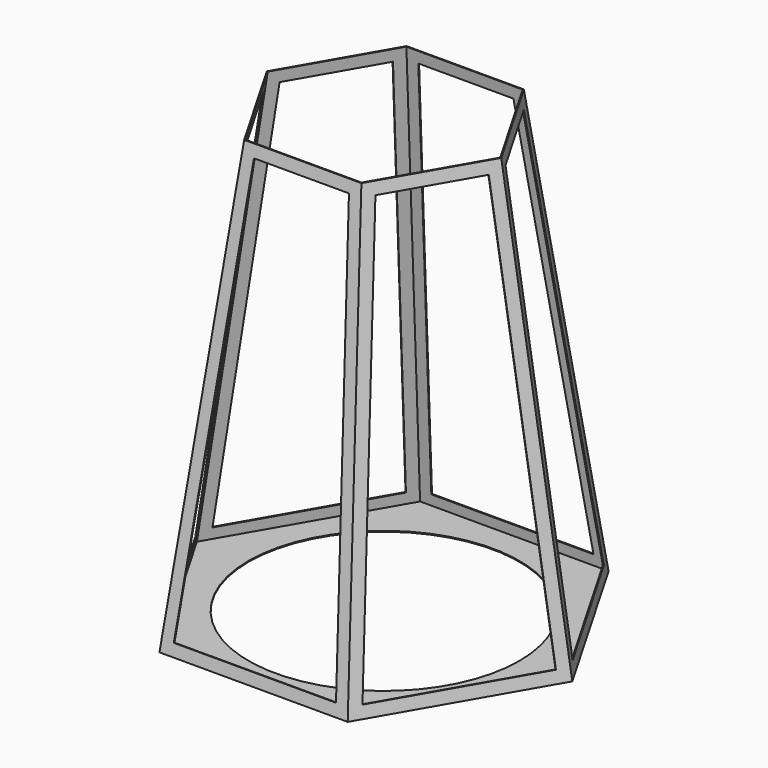
from build123d import *

# Parameters (mm, degrees)
F1_DEPTH  = 800
F1_TAPER  = 8
F2_T      = -1.6
F3_R      = 247.5
F4_DEPTH  = 25
F6_DEPTH  = 25
F8_DEPTH  = 25
F10_DEPTH = 25
F12_DEPTH = 25
F14_DEPTH = 25
F16_DEPTH = 25


with BuildPart() as f1:
    # F0 (on Top) → F1 (new body)
    with BuildSketch(Plane.XY):
        Polygon((172.0503802185, 298), (-172.0503802185, 298), (-344.100760437, 0), (-172.0503802185, -298), (172.0503802185, -298), (344.100760437, 0), align=None)
    extrude(amount=F1_DEPTH, taper=F1_TAPER)

    # F2
    f2_openings = [f1.faces().sort_by_distance(p)[0] for p in [
        (0, 0, 800),
    ]]
    offset(amount=F2_T, openings=f2_openings)

    # F3 (on face) → F4 (cut)
    with BuildSketch(Plane.XY):
        Circle(F3_R)
    extrude(amount=F4_DEPTH, mode=Mode.SUBTRACT)

    # F5 (on face) → F6 (cut)
    with BuildSketch(Plane(origin=(0, -292.2279926948, 41.0699660167), x_dir=(1, 0, 0), z_dir=(0, -0.9902680687, 0.139173101))):
        Polygon((-86.8341790619, 744.3884739288), (-148.2117384586, -19.4735840861), (148.2117384586, -19.4735840861), (86.8341790619, 744.3884739288), align=None)
    extrude(amount=-F6_DEPTH, mode=Mode.SUBTRACT)

    # F7 (on face) → F8 (cut)
    with BuildSketch(Plane(origin=(-253.0768653706, -146.1139963474, 41.0699660167), x_dir=(0.4887402152, -0.8688166021, -0.0793140218), z_dir=(-0.8575973041, -0.4951340344, 0.139173101))):
        Polygon((-146.1758796985, 735.0421667944), (-146.1758796985, -31.2818172178), (149.2952941729, -7.540227576), (26.934543851, 748.9518710297), align=None)
    extrude(amount=-F8_DEPTH, mode=Mode.SUBTRACT)

    # F9 (on face) → F10 (cut)
    with BuildSketch(Plane(origin=(-253.0768653706, 146.1139963474, 41.0699660167), x_dir=(-0.4887402152, -0.8688166021, 0.0793140218), z_dir=(-0.8575973041, 0.4951340344, 0.139173101))):
        Polygon((146.1758796985, 735.0421667944), (-26.934543851, 748.9518710297), (-149.2952941729, -7.540227576), (146.1758796985, -31.2818172178), align=None)
    extrude(amount=-F10_DEPTH, mode=Mode.SUBTRACT)

    # F11 (on face) → F12 (cut)
    with BuildSketch(Plane(origin=(0, 292.2279926948, 41.0699660167), x_dir=(-1, 0, 0), z_dir=(0, 0.9902680687, 0.139173101))):
        Polygon((-148.2117384586, -19.4735840861), (148.2117384586, -19.4735840861), (86.8341790619, 744.3884739288), (-86.8341790619, 744.3884739288), align=None)
    extrude(amount=-F12_DEPTH, mode=Mode.SUBTRACT)

    # F13 (on face) → F14 (cut)
    with BuildSketch(Plane(origin=(253.0768653706, 146.1139963474, 41.0699660167), x_dir=(-0.4887402152, 0.8688166021, -0.0793140218), z_dir=(0.8575973041, 0.4951340344, 0.139173101))):
        Polygon((26.934543851, 748.9518710297), (-146.1758796985, 735.0421667944), (-146.1758796985, -31.2818172178), (149.2952941729, -7.540227576), align=None)
    extrude(amount=-F14_DEPTH, mode=Mode.SUBTRACT)

    # F15 (on face) → F16 (cut)
    with BuildSketch(Plane(origin=(253.0768653706, -146.1139963474, 41.0699660167), x_dir=(0.4887402152, 0.8688166021, 0.0793140218), z_dir=(0.8575973041, -0.4951340344, 0.139173101))):
        Polygon((-26.934543851, 748.9518710297), (-149.2952941729, -7.540227576), (146.1758796985, -31.2818172178), (146.1758796985, 735.0421667944), align=None)
    extrude(amount=-F16_DEPTH, mode=Mode.SUBTRACT)


solid = f1.part
